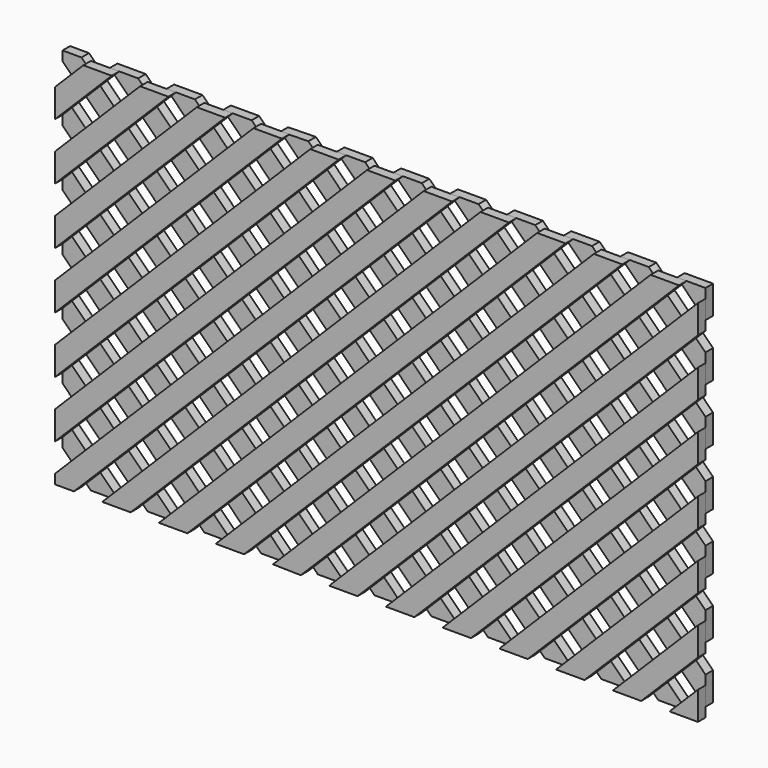
from build123d import *

# Parameters (mm, degrees)
F1_DEPTH = 12.7
F3_DEPTH = 12.7


with BuildPart() as f1:
    # F0 (on Front) → F1 (new body)
    with BuildSketch(Plane.XZ):
        Polygon((0, 12.7), (0, 0), (25.4, 0), (38.1, 12.7), (190.5, 165.1), (381, 355.6), (419.1, 393.7), (533.4, 508), (495.3, 508), (381, 393.7), (190.5, 203.2), align=None)
        Polygon((76.2, 508), (38.1, 508), (0, 469.9), (0, 431.8), align=None)
        Polygon((0, 355.6), (38.1, 393.7), (152.4, 508), (114.3, 508), (0, 393.7), align=None)
        Polygon((0, 317.5), (0, 279.4), (190.5, 469.9), (228.6, 508), (190.5, 508), align=None)
        Polygon((0, 241.3), (0, 203.2), (190.5, 393.7), (304.8, 508), (266.7, 508), (190.5, 431.8), align=None)
        Polygon((0, 165.1), (0, 127), (190.5, 317.5), (381, 508), (342.9, 508), (228.6, 393.7), (190.5, 355.6), align=None)
        Polygon((0, 88.9), (0, 50.8), (190.5, 241.3), (381, 431.8), (457.2, 508), (419.1, 508), (381, 469.9), (190.5, 279.4), align=None)
        Polygon((190.5, 127), (76.2, 12.7), (63.5, 0), (101.6, 0), (114.3, 12.7), (190.5, 88.9), (381, 279.4), (571.5, 469.9), (609.6, 508), (571.5, 508), (381, 317.5), align=None)
        Polygon((190.5, 50.8), (152.4, 12.7), (139.7, 0), (177.8, 0), (190.5, 12.7), (381, 203.2), (571.5, 393.7), (685.8, 508), (647.7, 508), (571.5, 431.8), (381, 241.3), align=None)
        Polygon((571.5, 355.6), (381, 165.1), (228.6, 12.7), (215.9, 0), (254, 0), (266.7, 12.7), (381, 127), (571.5, 317.5), (762, 508), (723.9, 508), (609.6, 393.7), align=None)
        Polygon((330.2, 0), (342.9, 12.7), (381, 50.8), (571.5, 241.3), (762, 431.8), (838.2, 508), (800.1, 508), (762, 469.9), (571.5, 279.4), (381, 88.9), (304.8, 12.7), (292.814841, 0.714841), align=None)
        Polygon((571.5, 203.2), (381, 12.7), (368.3, 0), (381, 0), (406.4, 0), (419.1, 12.7), (571.5, 165.1), (762, 355.6), (800.1, 393.7), (863.6, 457.2), (863.6, 495.3), (762, 393.7), align=None)
        Polygon((571.5, 127), (457.2, 12.7), (444.5, 0), (482.6, 0), (495.3, 12.7), (571.5, 88.9), (762, 279.4), (863.6, 381), (863.6, 419.1), (762, 317.5), align=None)
        Polygon((571.5, 50.8), (533.4, 12.7), (520.7, 0), (558.8, 0), (571.5, 12.7), (762, 203.2), (863.6, 304.8), (863.6, 342.9), (762, 241.3), align=None)
        Polygon((863.6, 266.7), (762, 165.1), (609.6, 12.7), (596.9, 0), (635, 0), (647.7, 12.7), (762, 127), (863.6, 228.6), align=None)
        Polygon((711.2, 0), (723.9, 12.7), (762, 50.8), (863.6, 152.4), (863.6, 190.5), (762, 88.9), (685.8, 12.7), (673.1, 0), align=None)
        Polygon((863.6, 114.3), (762, 12.7), (749.3, 0), (762, 0), (787.4, 0), (800.1, 12.7), (863.6, 76.2), align=None)
        Polygon((863.6, 38.1), (838.2, 12.7), (825.5, 0), (863.6, 0), align=None)
    extrude(amount=F1_DEPTH)


with BuildPart() as f3:
    # F2 (on Front) → F3 (new body)
    with BuildSketch(Plane.XZ):
        Polygon((177.8, 508), (139.7, 508), (152.4, 495.3), (190.5, 457.2), (381, 266.7), (571.5, 76.2), (647.7, 0), (685.8, 0), (571.5, 114.3), (381, 304.8), (190.5, 495.3), align=None)
        Polygon((101.6, 508), (63.5, 508), (76.2, 495.3), (190.5, 381), (381, 190.5), (571.5, 0), (609.6, 0), (571.5, 38.1), (381, 228.6), (190.5, 419.1), (114.3, 495.3), align=None)
        Polygon((25.4, 508), (0, 508), (0, 495.3), (190.5, 304.8), (381, 114.3), (495.3, 0), (533.4, 0), (419.1, 114.3), (381, 152.4), (190.5, 342.9), (38.1, 495.3), align=None)
        Polygon((673.1, 508), (685.8, 495.3), (762, 419.1), (863.6, 317.5), (863.6, 355.6), (762, 457.2), (723.9, 495.3), (711.2, 508), align=None)
        Polygon((406.4, 508), (381, 508), (368.3, 508), (381, 495.3), (571.5, 304.8), (762, 114.3), (863.6, 12.7), (863.6, 50.8), (800.1, 114.3), (762, 152.4), (571.5, 342.9), (419.1, 495.3), align=None)
        Polygon((444.5, 508), (457.2, 495.3), (571.5, 381), (762, 190.5), (863.6, 88.9), (863.6, 127), (762, 228.6), (571.5, 419.1), (495.3, 495.3), (482.6, 508), align=None)
        Polygon((787.4, 508), (762, 508), (749.3, 508), (762, 495.3), (863.6, 393.7), (863.6, 431.8), (800.1, 495.3), align=None)
        Polygon((635, 508), (596.9, 508), (609.6, 495.3), (762, 342.9), (863.6, 241.3), (863.6, 279.4), (762, 381), (647.7, 495.3), align=None)
        Polygon((825.5, 508), (838.2, 495.3), (863.6, 469.9), (863.6, 508), align=None)
        Polygon((520.7, 508), (533.4, 495.3), (571.5, 457.2), (762, 266.7), (863.6, 165.1), (863.6, 203.2), (762, 304.8), (571.5, 495.3), (558.8, 508), align=None)
        Polygon((381, 381), (266.7, 495.3), (254, 508), (215.9, 508), (228.6, 495.3), (381, 342.9), (571.5, 152.4), (609.6, 114.3), (723.9, 0), (762, 0), (571.5, 190.5), align=None)
        Polygon((381, 457.2), (342.9, 495.3), (330.2, 508), (292.814842, 507.285159), (304.8, 495.3), (381, 419.1), (571.5, 228.6), (762, 38.1), (800.1, 0), (838.2, 0), (762, 76.2), (571.5, 266.7), align=None)
        Polygon((381, 38.1), (419.1, 0), (457.2, 0), (381, 76.2), (190.5, 266.7), (0, 457.2), (0, 419.1), (190.5, 228.6), align=None)
        Polygon((0, 228.6), (0, 190.5), (190.5, 0), (228.6, 0), (190.5, 38.1), align=None)
        Polygon((190.5, 190.5), (0, 381), (0, 342.9), (190.5, 152.4), (228.6, 114.3), (342.9, 0), (381, 0), align=None)
        Polygon((190.5, 114.3), (0, 304.8), (0, 266.7), (190.5, 76.2), (266.7, 0), (304.8, 0), align=None)
        Polygon((38.1, 114.3), (0, 152.4), (0, 114.3), (114.3, 0), (152.4, 0), align=None)
        Polygon((0, 38.1), (38.1, 0), (76.2, 0), (0, 76.2), align=None)
    extrude(amount=-F3_DEPTH)


solid = Compound([f1.part, f3.part])
